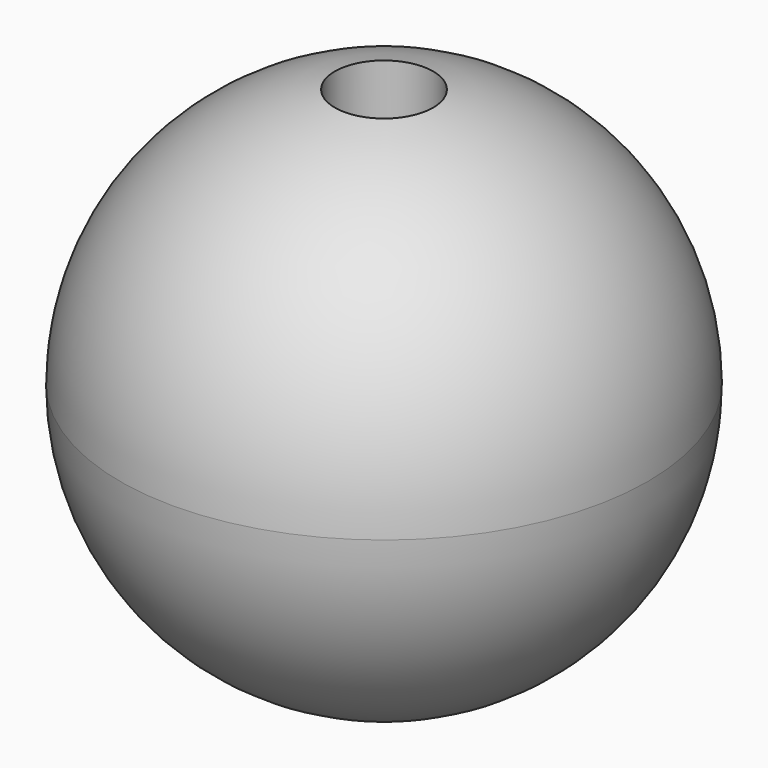
from build123d import *

# Parameters (mm, degrees)
F4_START      = -2
F4_DEPTH      = 23
F6_START      = -2
F5_R          = 3.725
F6_DEPTH      = 23
F7_R          = 1.975
F8_DEPTH      = 25
F8_DEPTH_BACK = 25
F9_START      = 5
F9_DEPTH      = 29.2


with BuildPart() as f1:
    # F0 (on Front) → F1 (revolve)
    with BuildSketch(Plane.XZ):
        with BuildLine():
            Line((0, 0), (0, 20))
            ThreePointArc((0, 20), (-14.1421356237, 14.1421356237), (-20, 0))
            Line((-20, 0), (0, 0))
        make_face()
    revolve(axis=Axis((0, 0, 0), (0, 0, -1)))

    # F3 (on face) → F4 (cut)
    with BuildSketch(Plane(origin=(0, 0, 0), x_dir=(1, 0, 0), z_dir=(0, 0, -1)).offset(F4_START)):
        Polygon((1.5877132403, 2.75), (-1.5877132403, 2.75), (-3.1754264805, 0), (-1.5877132403, -2.75), (1.5877132403, -2.75), (3.1754264805, 0), align=None)
    extrude(amount=-F4_DEPTH, mode=Mode.SUBTRACT)


with BuildPart() as f2:
    # F0 (on Front) → F2 (revolve)
    with BuildSketch(Plane.XZ):
        with BuildLine():
            ThreePointArc((0, -20), (14.1421356237, -14.1421356237), (20, 0))
            Line((20, 0), (0, 0))
            Line((0, 0), (0, -20))
        make_face()
    revolve(axis=Axis((0, 0, 0), (0, 0, -1)))

    # F5 (on face) → F6 (cut)
    with BuildSketch(Plane.XY.offset(F6_START)):
        Circle(F5_R)
    extrude(amount=-F6_DEPTH, mode=Mode.SUBTRACT)


with BuildPart() as f8_tool:
    # F7 (on Top) → F8 (new body, two sides)
    with BuildSketch(Plane.XY) as f8_sk:
        Circle(F7_R)
    extrude(amount=-F8_DEPTH)
    extrude(f8_sk.sketch, amount=F8_DEPTH_BACK)


with BuildPart() as f1_1:
    add(f1.part)

    # F8: cut by f8_tool
    add(f8_tool.part, mode=Mode.SUBTRACT)

    # F5 (on face) → F9 (cut)
    with BuildSketch(Plane.XY.offset(F9_START)):
        Circle(F5_R)
    extrude(amount=F9_DEPTH, mode=Mode.SUBTRACT)


with BuildPart() as f2_1:
    add(f2.part)

    # F8: cut by f8_tool
    add(f8_tool.part, mode=Mode.SUBTRACT)


solid = Compound([f1_1.part, f2_1.part])
